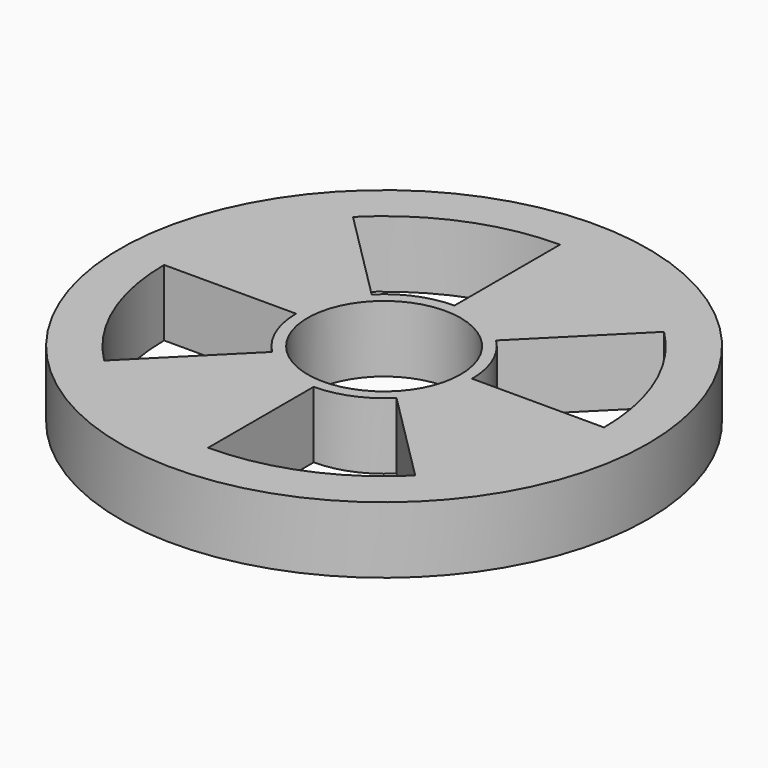
from build123d import *

# Parameters (mm, degrees)
F0_R     = 38.1
F1_DEPTH = 4.8006
F3_R     = 11.049
F4_DEPTH = 25.4
F5_DEPTH = 25.4


with BuildPart() as f1:
    # F0 (on Top) → F1 (new body, symmetric)
    with BuildSketch(Plane.XY):
        Circle(F0_R)
    extrude(amount=F1_DEPTH, both=True)

    # F3 (on face) → F4 (cut)
    with BuildSketch(Plane.XY.offset(4.8006)):
        Circle(F3_R)
    extrude(amount=-F4_DEPTH, mode=Mode.SUBTRACT)

    # F2 (on face) → F5 (cut)
    with BuildSketch(Plane.XY.offset(4.8006)):
        with BuildLine():
            ThreePointArc((17.9605122421, 17.9605122421), (23.4665401258, 9.7201591821), (25.4, 0))
            Line((25.4, 0), (31.75, 0))
            ThreePointArc((31.75, 0), (29.3331751572, 12.1501989776), (22.4506403027, 22.4506403027))
            Line((22.4506403027, 22.4506403027), (17.9605122421, 17.9605122421))
        make_face()
        with BuildLine():
            ThreePointArc((-17.9605122421, 17.9605122421), (-9.7201591821, 23.4665401258), (0, 25.4))
            Line((0, 25.4), (0, 31.75))
            ThreePointArc((0, 31.75), (-12.1501989776, 29.3331751572), (-22.4506403027, 22.4506403027))
            Line((-22.4506403027, 22.4506403027), (-17.9605122421, 17.9605122421))
        make_face()
        with BuildLine():
            Line((-22.4506403027, -22.4506403027), (-17.9605122421, -17.9605122421))
            ThreePointArc((-17.9605122421, -17.9605122421), (-23.4665401258, -9.7201591821), (-25.4, 0))
            Line((-25.4, 0), (-31.75, 0))
            ThreePointArc((-31.75, 0), (-29.3331751572, -12.1501989776), (-22.4506403027, -22.4506403027))
        make_face()
        with BuildLine():
            Line((22.4506403027, -22.4506403027), (17.9605122421, -17.9605122421))
            ThreePointArc((17.9605122421, -17.9605122421), (9.7201591821, -23.4665401258), (0, -25.4))
            Line((0, -25.4), (0, -31.75))
            ThreePointArc((0, -31.75), (12.1501989776, -29.3331751572), (22.4506403027, -22.4506403027))
        make_face()
        with BuildLine():
            Line((-13.4703841816, -13.4703841816), (-8.9802561211, -8.9802561211))
            ThreePointArc((-8.9802561211, -8.9802561211), (-11.7332700629, -4.860079591), (-12.7, 0))
            Line((-12.7, 0), (-19.05, 0))
            ThreePointArc((-19.05, 0), (-17.5999050943, -7.2901193866), (-13.4703841816, -13.4703841816))
        make_face()
        with BuildLine():
            ThreePointArc((-8.9802561211, 8.9802561211), (-4.860079591, 11.7332700629), (0, 12.7))
            Line((0, 12.7), (0, 19.05))
            ThreePointArc((0, 19.05), (-7.2901193866, 17.5999050943), (-13.4703841816, 13.4703841816))
            Line((-13.4703841816, 13.4703841816), (-8.9802561211, 8.9802561211))
        make_face()
        with BuildLine():
            ThreePointArc((8.9802561211, 8.9802561211), (11.7332700629, 4.860079591), (12.7, 0))
            Line((12.7, 0), (19.05, 0))
            ThreePointArc((19.05, 0), (17.5999050943, 7.2901193866), (13.4703841816, 13.4703841816))
            Line((13.4703841816, 13.4703841816), (8.9802561211, 8.9802561211))
        make_face()
        with BuildLine():
            Line((13.4703841816, -13.4703841816), (8.9802561211, -8.9802561211))
            ThreePointArc((8.9802561211, -8.9802561211), (4.860079591, -11.7332700629), (0, -12.7))
            Line((0, -12.7), (0, -19.05))
            ThreePointArc((0, -19.05), (7.2901193866, -17.5999050943), (13.4703841816, -13.4703841816))
        make_face()
        with BuildLine():
            ThreePointArc((-13.4703841816, 13.4703841816), (-7.2901193866, 17.5999050943), (0, 19.05))
            Line((0, 19.05), (0, 25.4))
            ThreePointArc((0, 25.4), (-9.7201591821, 23.4665401258), (-17.9605122421, 17.9605122421))
            Line((-17.9605122421, 17.9605122421), (-13.4703841816, 13.4703841816))
        make_face()
        with BuildLine():
            ThreePointArc((13.4703841816, 13.4703841816), (17.5999050943, 7.2901193866), (19.05, 0))
            Line((19.05, 0), (25.4, 0))
            ThreePointArc((25.4, 0), (23.4665401258, 9.7201591821), (17.9605122421, 17.9605122421))
            Line((17.9605122421, 17.9605122421), (13.4703841816, 13.4703841816))
        make_face()
        with BuildLine():
            Line((-17.9605122421, -17.9605122421), (-13.4703841816, -13.4703841816))
            ThreePointArc((-13.4703841816, -13.4703841816), (-17.5999050943, -7.2901193866), (-19.05, 0))
            Line((-19.05, 0), (-25.4, 0))
            ThreePointArc((-25.4, 0), (-23.4665401258, -9.7201591821), (-17.9605122421, -17.9605122421))
        make_face()
        with BuildLine():
            Line((17.9605122421, -17.9605122421), (13.4703841816, -13.4703841816))
            ThreePointArc((13.4703841816, -13.4703841816), (7.2901193866, -17.5999050943), (0, -19.05))
            Line((0, -19.05), (0, -25.4))
            ThreePointArc((0, -25.4), (9.7201591821, -23.4665401258), (17.9605122421, -17.9605122421))
        make_face()
    extrude(amount=-F5_DEPTH, mode=Mode.SUBTRACT)


solid = f1.part
